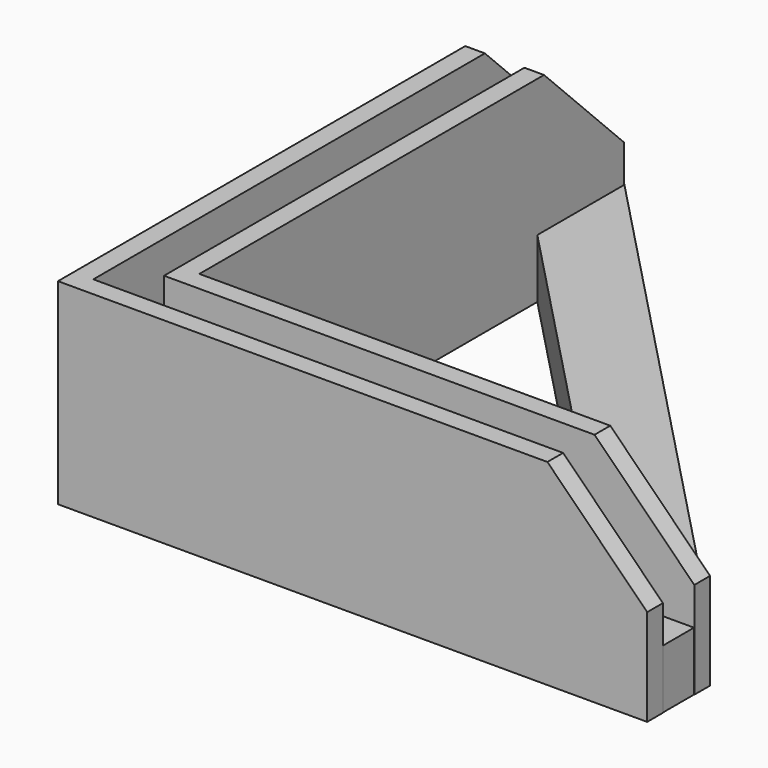
from build123d import *

# Parameters (mm, degrees)
F1_DEPTH = 10
F3_DEPTH = 3
F4_SIZE  = 5.08
F5_SIZE  = 5.08
F6_SIZE  = 5.08


with BuildPart() as f1:
    # F0 (on Top) → F1 (new body)
    with BuildSketch(Plane.XY):
        Polygon((-30.949821, -4.568158), (-30.949821, 25.431842), (-31.949821, 25.431842), (-31.949821, -4.568158), (-31.949821, -5.568158), (-1.949821, -5.568158), (-1.949821, -4.568158), align=None)
        Polygon((-27.949821, 25.446974), (-28.949821, 25.446974), (-28.949821, -2.568158), (-27.949821, -2.568158), (-1.949821, -2.568158), (-1.949821, -1.568158), (-27.949821, -1.568158), align=None)
    extrude(amount=F1_DEPTH)

    # F4
    f4_edges = [f1.edges().sort_by_distance(p)[0] for p in [
        (-31.449821, 25.431842, 10),
    ]]
    chamfer(f4_edges, length=F4_SIZE)

    # F5
    f5_edges = [f1.edges().sort_by_distance(p)[0] for p in [
        (-28.449821, 25.446974, 10),
    ]]
    chamfer(f5_edges, length=F5_SIZE)

    # F6
    f6_edges = [f1.edges().sort_by_distance(p)[0] for p in [
        (-1.949821, -2.068158, 10),
        (-1.949821, -5.068158, 10),
    ]]
    chamfer(f6_edges, length=F6_SIZE)


with BuildPart() as f3:
    # F2 (on Top) → F3 (new body)
    with BuildSketch(Plane.XY):
        Polygon((-27.981613, 25.51401), (-31.958159, 25.51401), (-31.958159, -5.388055), (-27.981613, -5.388055), (-27.981613, -1.603151), (-27.981613, 19.972878), align=None)
        Polygon((-1.966384, -1.603151), (-27.981613, 25.51401), (-27.981613, 19.972878), (-7.282347, -1.603151), align=None)
        Polygon((-1.966384, -5.388055), (-1.966384, -1.603151), (-7.282347, -1.603151), (-27.981613, -1.603151), (-27.981613, -5.388055), align=None)
    extrude(amount=F3_DEPTH)


solid = Compound([f1.part, f3.part])
